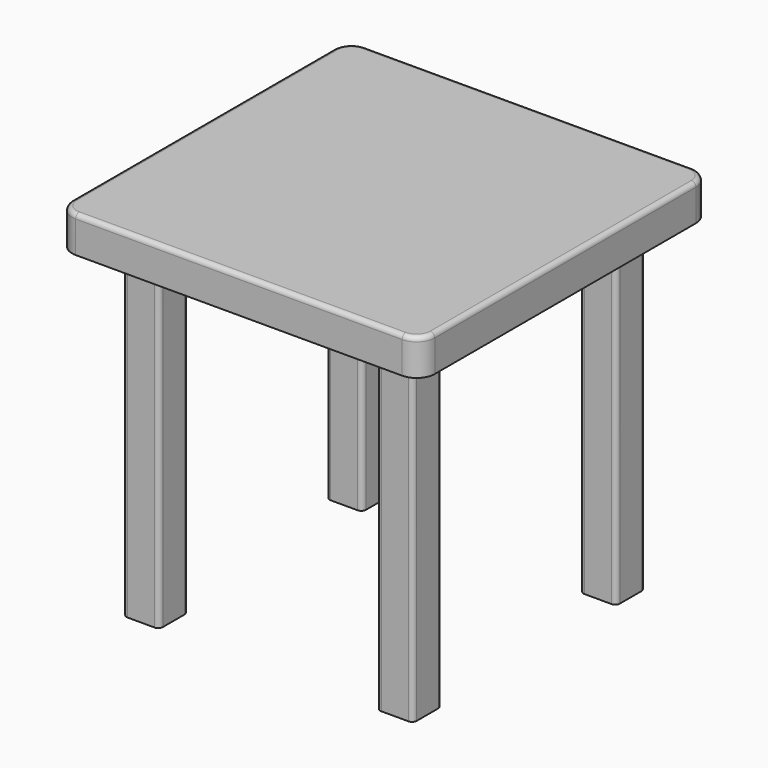
from build123d import *

# Parameters (mm, degrees)
F1_DEPTH = 40
F3_DEPTH = 360
F4_R     = 5


with BuildPart() as f1:
    # F0 (on Top) → F1 (new body)
    with BuildSketch(Plane.XY):
        with BuildLine():
            Line((179.756029, 214.536132), (-180.243971, 214.536132))
            ThreePointArc((-180.243971, 214.536132), (-194.386107, 208.678267), (-200.243971, 194.536132))
            Line((-200.243971, 194.536132), (-200.243971, -165.463868))
            ThreePointArc((-200.243971, -165.463868), (-194.386107, -179.606004), (-180.243971, -185.463868))
            Line((-180.243971, -185.463868), (179.756029, -185.463868))
            ThreePointArc((179.756029, -185.463868), (193.898164, -179.606004), (199.756029, -165.463868))
            Line((199.756029, -165.463868), (199.756029, 194.536132))
            ThreePointArc((199.756029, 194.536132), (193.898164, 208.678267), (179.756029, 214.536132))
        make_face()
    extrude(amount=F1_DEPTH)

    # F2 (on face) → F3 (join)
    with BuildSketch(Plane(origin=(0, 0, 0), x_dir=(1, 0, 0), z_dir=(0, 0, -1))):
        with BuildLine():
            Line((-125.243971, 145.463868), (-155.243971, 145.463868))
            ThreePointArc((-155.243971, 145.463868), (-158.779505, 143.999402), (-160.243971, 140.463868))
            Line((-160.243971, 140.463868), (-160.243971, 110.463868))
            ThreePointArc((-160.243971, 110.463868), (-158.779505, 106.928334), (-155.243971, 105.463868))
            Line((-155.243971, 105.463868), (-125.243971, 105.463868))
            ThreePointArc((-125.243971, 105.463868), (-121.708437, 106.928334), (-120.243971, 110.463868))
            Line((-120.243971, 110.463868), (-120.243971, 140.463868))
            ThreePointArc((-120.243971, 140.463868), (-121.708437, 143.999402), (-125.243971, 145.463868))
        make_face()
        with BuildLine():
            Line((-125.243971, -134.536132), (-155.243971, -134.536132))
            ThreePointArc((-155.243971, -134.536132), (-158.779505, -136.000598), (-160.243971, -139.536132))
            Line((-160.243971, -139.536132), (-160.243971, -169.536132))
            ThreePointArc((-160.243971, -169.536132), (-158.779505, -173.071666), (-155.243971, -174.536132))
            Line((-155.243971, -174.536132), (-125.243971, -174.536132))
            ThreePointArc((-125.243971, -174.536132), (-121.708437, -173.071666), (-120.243971, -169.536132))
            Line((-120.243971, -169.536132), (-120.243971, -139.536132))
            ThreePointArc((-120.243971, -139.536132), (-121.708437, -136.000598), (-125.243971, -134.536132))
        make_face()
        with BuildLine():
            Line((154.756029, -134.536132), (124.756029, -134.536132))
            ThreePointArc((124.756029, -134.536132), (121.220495, -136.000598), (119.756029, -139.536132))
            Line((119.756029, -139.536132), (119.756029, -169.536132))
            ThreePointArc((119.756029, -169.536132), (121.220495, -173.071666), (124.756029, -174.536132))
            Line((124.756029, -174.536132), (154.756029, -174.536132))
            ThreePointArc((154.756029, -174.536132), (158.291563, -173.071666), (159.756029, -169.536132))
            Line((159.756029, -169.536132), (159.756029, -139.536132))
            ThreePointArc((159.756029, -139.536132), (158.291563, -136.000598), (154.756029, -134.536132))
        make_face()
        with BuildLine():
            Line((154.756029, 145.463868), (124.756029, 145.463868))
            ThreePointArc((124.756029, 145.463868), (121.220495, 143.999402), (119.756029, 140.463868))
            Line((119.756029, 140.463868), (119.756029, 110.463868))
            ThreePointArc((119.756029, 110.463868), (121.220495, 106.928334), (124.756029, 105.463868))
            Line((124.756029, 105.463868), (154.756029, 105.463868))
            ThreePointArc((154.756029, 105.463868), (158.291563, 106.928334), (159.756029, 110.463868))
            Line((159.756029, 110.463868), (159.756029, 140.463868))
            ThreePointArc((159.756029, 140.463868), (158.291563, 143.999402), (154.756029, 145.463868))
        make_face()
    extrude(amount=F3_DEPTH)

    # F4
    f4_edges = [f1.edges().sort_by_distance(p)[0] for p in [
        (199.756029, 14.536132, 40),
        (193.898164, 208.678267, 40),
        (-0.243971, 214.536132, 40),
        (-194.386107, 208.678267, 40),
        (-200.243971, 14.536132, 40),
        (-194.386107, -179.606004, 40),
        (-0.243971, -185.463868, 40),
        (193.898164, -179.606004, 40),
    ]]
    fillet(f4_edges, radius=F4_R)


solid = f1.part
